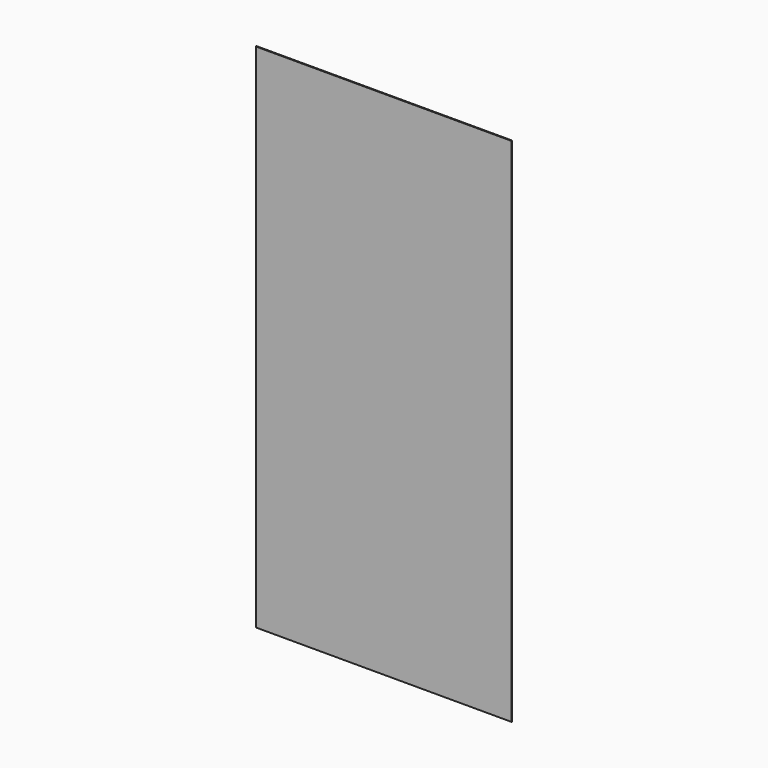
from build123d import *

# Parameters (mm, degrees)
SKETCH_W  = 1220
SKETCH_H  = 2440
PAD_DEPTH = 4


with BuildPart() as part:
    # Sketch → Pad (new body)
    with BuildSketch(Plane.XZ):
        Rectangle(SKETCH_W, SKETCH_H)
    extrude(amount=PAD_DEPTH)


solid = part.part
